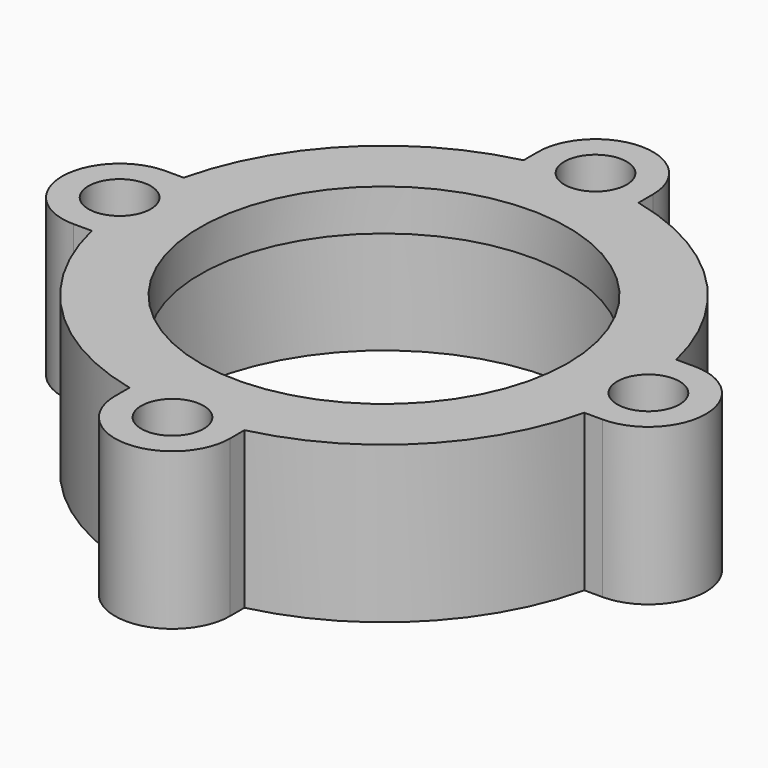
from build123d import *

# Parameters (mm, degrees)
F0_R     = 2.15265
F0_R_2   = 12.7
F1_DEPTH = 10.795
F2_R     = 14.2875
F3_DEPTH = 7.9375


with BuildPart() as f1:
    # F0 (on Top) → F1 (new body)
    with BuildSketch(Plane.XY):
        with BuildLine():
            Line((-17.005526, 3.96875), (-18.25625, 3.96875))
            ThreePointArc((-18.25625, 3.96875), (-22.225, 0), (-18.25625, -3.96875))
            Line((-18.25625, -3.96875), (-17.005526, -3.96875))
            ThreePointArc((-17.005526, -3.96875), (-12.347852, -12.347852), (-3.96875, -17.005526))
            Line((-3.96875, -17.005526), (-3.96875, -18.25625))
            ThreePointArc((-3.96875, -18.25625), (0, -22.225), (3.96875, -18.25625))
            Line((3.96875, -18.25625), (3.96875, -17.005526))
            ThreePointArc((3.96875, -17.005526), (12.347852, -12.347852), (17.005526, -3.96875))
            Line((17.005526, -3.96875), (18.25625, -3.96875))
            ThreePointArc((18.25625, -3.96875), (22.225, 0), (18.25625, 3.96875))
            Line((18.25625, 3.96875), (17.005526, 3.96875))
            ThreePointArc((17.005526, 3.96875), (12.347852, 12.347852), (3.96875, 17.005526))
            Line((3.96875, 17.005526), (3.96875, 18.25625))
            ThreePointArc((3.96875, 18.25625), (0, 22.225), (-3.96875, 18.25625))
            Line((-3.96875, 18.25625), (-3.96875, 17.005526))
            ThreePointArc((-3.96875, 17.005526), (-12.347852, 12.347852), (-17.005526, 3.96875))
        make_face()
        with Locations((0, -18.25625)):
            Circle(F0_R, mode=Mode.SUBTRACT)
        with Locations((-18.25625, 0)):
            Circle(F0_R, mode=Mode.SUBTRACT)
        Circle(F0_R_2, mode=Mode.SUBTRACT)
        with Locations((18.25625, 0)):
            Circle(F0_R, mode=Mode.SUBTRACT)
        with Locations((0, 18.25625)):
            Circle(F0_R, mode=Mode.SUBTRACT)
    extrude(amount=F1_DEPTH)

    # F2 (on face) → F3 (cut)
    with BuildSketch(Plane(origin=(0, 0, 0), x_dir=(1, 0, 0), z_dir=(0, 0, -1))):
        Circle(F2_R)
    extrude(amount=-F3_DEPTH, mode=Mode.SUBTRACT)


solid = f1.part
